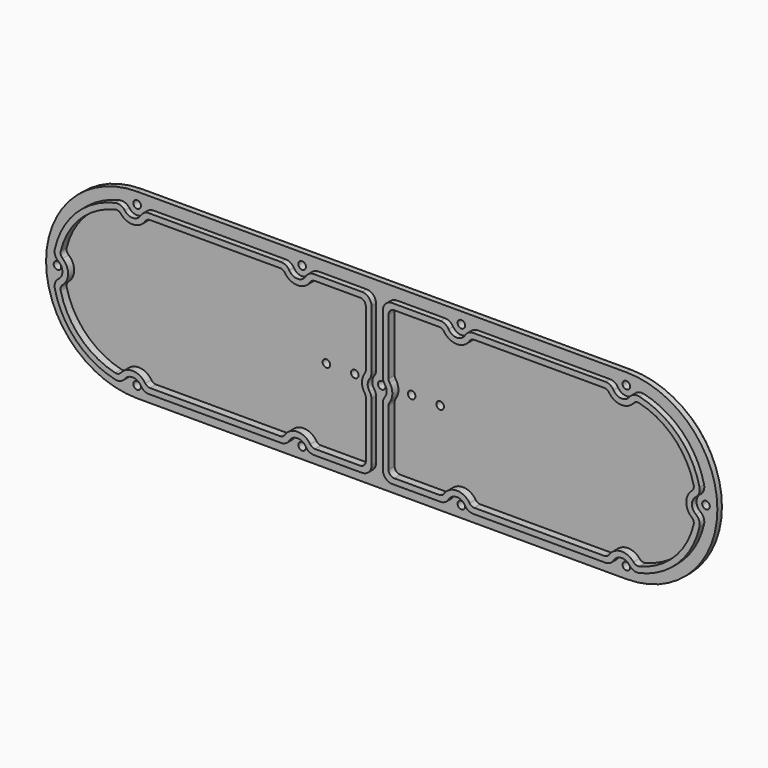
from build123d import *

# Parameters (mm, degrees)
F0_R     = 2
F1_DEPTH = 5
F2_R     = 5
F3_DEPTH = 8
F4_DEPTH = 4
F5_R     = 5
F6_R     = 3
F7_SIZE  = 2


with BuildPart() as f1:
    # F0 (on Front) → F1 (new body)
    with BuildSketch(Plane.XZ):
        with BuildLine():
            ThreePointArc((129, -48), (177, 0), (129, 48))
            Line((129, 48), (0, 48))
            Line((0, 48), (-129, 48))
            ThreePointArc((-129, 48), (-177, 0), (-129, -48))
            Line((-129, -48), (0, -48))
            Line((0, -48), (129, -48))
        make_face()
        with Locations((-129, -42)):
            Circle(F0_R, mode=Mode.SUBTRACT)
        with Locations((-42, -42)):
            Circle(F0_R, mode=Mode.SUBTRACT)
        with Locations((42, -42)):
            Circle(F0_R, mode=Mode.SUBTRACT)
        with Locations((129, -42)):
            Circle(F0_R, mode=Mode.SUBTRACT)
        with Locations((-171, 0)):
            Circle(F0_R, mode=Mode.SUBTRACT)
        with BuildLine():
            Line((-37, 42), (-3, 42))
            Line((-3, 42), (-3, 4))
            ThreePointArc((-3, 4), (-5, 0), (-3, -4))
            Line((-3, -4), (-3, -42))
            Line((-3, -42), (-37, -42))
            ThreePointArc((-37, -42), (-42, -37), (-47, -42))
            Line((-47, -42), (-124, -42))
            ThreePointArc((-124, -42), (-128.8511244682, -37.0022168839), (-133.9911344304, -41.7023809524))
            ThreePointArc((-133.9911344304, -41.7023809524), (-158.6984848098, -29.6984848098), (-170.7023809524, -4.9911344304))
            ThreePointArc((-170.7023809524, -4.9911344304), (-166, 0), (-170.7023809524, 4.9911344304))
            ThreePointArc((-170.7023809524, 4.9911344304), (-158.6984848098, 29.6984848098), (-133.9911344304, 41.7023809524))
            ThreePointArc((-133.9911344304, 41.7023809524), (-128.8511244682, 37.0022168839), (-124, 42))
            Line((-124, 42), (-47, 42))
            ThreePointArc((-47, 42), (-42, 37), (-37, 42))
        make_face(mode=Mode.SUBTRACT)
        with Locations((-129, 42)):
            Circle(F0_R, mode=Mode.SUBTRACT)
        with Locations((-42, 42)):
            Circle(F0_R, mode=Mode.SUBTRACT)
        Circle(F0_R, mode=Mode.SUBTRACT)
        with BuildLine():
            Line((47, 42), (124, 42))
            ThreePointArc((124, 42), (128.8511244682, 37.0022168839), (133.9911344304, 41.7023809524))
            ThreePointArc((133.9911344304, 41.7023809524), (158.6984848098, 29.6984848098), (170.7023809524, 4.9911344304))
            ThreePointArc((170.7023809524, 4.9911344304), (166, 0), (170.7023809524, -4.9911344304))
            ThreePointArc((170.7023809524, -4.9911344304), (158.6984848098, -29.6984848098), (133.9911344304, -41.7023809524))
            ThreePointArc((133.9911344304, -41.7023809524), (128.8511244682, -37.0022168839), (124, -42))
            Line((124, -42), (47, -42))
            ThreePointArc((47, -42), (42, -37), (37, -42))
            Line((37, -42), (3, -42))
            Line((3, -42), (3, -4))
            ThreePointArc((3, -4), (5, 0), (3, 4))
            Line((3, 4), (3, 42))
            Line((3, 42), (37, 42))
            ThreePointArc((37, 42), (42, 37), (47, 42))
        make_face(mode=Mode.SUBTRACT)
        with Locations((171, 0)):
            Circle(F0_R, mode=Mode.SUBTRACT)
        with Locations((42, 42)):
            Circle(F0_R, mode=Mode.SUBTRACT)
        with Locations((129, 42)):
            Circle(F0_R, mode=Mode.SUBTRACT)
    extrude(amount=F1_DEPTH)

    # F2
    f2_edges = [f1.edges().sort_by_distance(p)[0] for p in [
        (3, -2.5, 42),
        (3, -2.5, -42),
        (37, -2.5, -42),
        (47, -2.5, -42),
        (124, -2.5, -42),
        (133.991134, -2.5, -41.702381),
        (170.702381, -2.5, -4.991134),
        (170.702381, -2.5, 4.991134),
        (124, -2.5, 42),
        (133.991134, -2.5, 41.702381),
        (47, -2.5, 42),
        (37, -2.5, 42),
        (3, -2.5, -4),
        (3, -2.5, 4),
        (-3, -2.5, 42),
        (-3, -2.5, -4),
        (-3, -2.5, 4),
        (-3, -2.5, -42),
        (-47, -2.5, -42),
        (-37, -2.5, -42),
        (-124, -2.5, -42),
        (-133.991134, -2.5, -41.702381),
        (-170.702381, -2.5, 4.991134),
        (-170.702381, -2.5, -4.991134),
        (-124, -2.5, 42),
        (-133.991134, -2.5, 41.702381),
        (-47, -2.5, 42),
        (-37, -2.5, 42),
    ]]
    fillet(f2_edges, radius=F2_R)

    # F0 (on Front) → F3 (join)
    with BuildSketch(Plane.XZ):
        with BuildLine():
            Line((-3, 4), (-3, 42))
            Line((-3, 42), (-37, 42))
            ThreePointArc((-37, 42), (-42, 37), (-47, 42))
            Line((-47, 42), (-124, 42))
            ThreePointArc((-124, 42), (-128.8511244682, 37.0022168839), (-133.9911344304, 41.7023809524))
            ThreePointArc((-133.9911344304, 41.7023809524), (-158.6984848098, 29.6984848098), (-170.7023809524, 4.9911344304))
            ThreePointArc((-170.7023809524, 4.9911344304), (-166, 0), (-170.7023809524, -4.9911344304))
            ThreePointArc((-170.7023809524, -4.9911344304), (-158.6984848098, -29.6984848098), (-133.9911344304, -41.7023809524))
            ThreePointArc((-133.9911344304, -41.7023809524), (-128.8511244682, -37.0022168839), (-124, -42))
            Line((-124, -42), (-47, -42))
            ThreePointArc((-47, -42), (-42, -37), (-37, -42))
            Line((-37, -42), (-3, -42))
            Line((-3, -42), (-3, -4))
            ThreePointArc((-3, -4), (-5, 0), (-3, 4))
        make_face()
        with BuildLine():
            ThreePointArc((-6, 5.2915026221), (-8, 0), (-6, -5.2915026221))
            Line((-6, -5.2915026221), (-6, -39))
            Line((-6, -39), (-34.5838015129, -39))
            ThreePointArc((-34.5838015129, -39), (-42, -34), (-49.4161984871, -39))
            Line((-49.4161984871, -39), (-121.5838015129, -39))
            ThreePointArc((-121.5838015129, -39), (-128.6399268998, -34.008107398), (-136.1163695393, -38.3452380952))
            ThreePointArc((-136.1163695393, -38.3452380952), (-156.5771644663, -27.5771644663), (-167.3452380952, -7.1163695393))
            ThreePointArc((-167.3452380952, -7.1163695393), (-163, 0), (-167.3452380952, 7.1163695393))
            ThreePointArc((-167.3452380952, 7.1163695393), (-156.5771644663, 27.5771644663), (-136.1163695393, 38.3452380952))
            ThreePointArc((-136.1163695393, 38.3452380952), (-128.6399268998, 34.008107398), (-121.5838015129, 39))
            Line((-121.5838015129, 39), (-49.4161984871, 39))
            ThreePointArc((-49.4161984871, 39), (-42, 34), (-34.5838015129, 39))
            Line((-34.5838015129, 39), (-6, 39))
            Line((-6, 39), (-6, 5.2915026221))
        make_face(mode=Mode.SUBTRACT)
        with BuildLine():
            ThreePointArc((133.9911344304, 41.7023809524), (128.8511244682, 37.0022168839), (124, 42))
            Line((124, 42), (47, 42))
            ThreePointArc((47, 42), (42, 37), (37, 42))
            Line((37, 42), (3, 42))
            Line((3, 42), (3, 4))
            ThreePointArc((3, 4), (5, 0), (3, -4))
            Line((3, -4), (3, -42))
            Line((3, -42), (37, -42))
            ThreePointArc((37, -42), (42, -37), (47, -42))
            Line((47, -42), (124, -42))
            ThreePointArc((124, -42), (128.8511244682, -37.0022168839), (133.9911344304, -41.7023809524))
            ThreePointArc((133.9911344304, -41.7023809524), (158.6984848098, -29.6984848098), (170.7023809524, -4.9911344304))
            ThreePointArc((170.7023809524, -4.9911344304), (166, 0), (170.7023809524, 4.9911344304))
            ThreePointArc((170.7023809524, 4.9911344304), (158.6984848098, 29.6984848098), (133.9911344304, 41.7023809524))
        make_face()
        with BuildLine():
            Line((6, 39), (34.5838015129, 39))
            ThreePointArc((34.5838015129, 39), (42, 34), (49.4161984871, 39))
            Line((49.4161984871, 39), (121.5838015129, 39))
            ThreePointArc((121.5838015129, 39), (128.6399268998, 34.008107398), (136.1163695393, 38.3452380952))
            ThreePointArc((136.1163695393, 38.3452380952), (156.5771644663, 27.5771644663), (167.3452380952, 7.1163695393))
            ThreePointArc((167.3452380952, 7.1163695393), (163, 0), (167.3452380952, -7.1163695393))
            ThreePointArc((167.3452380952, -7.1163695393), (156.5771644663, -27.5771644663), (136.1163695393, -38.3452380952))
            ThreePointArc((136.1163695393, -38.3452380952), (128.6399268998, -34.008107398), (121.5838015129, -39))
            Line((121.5838015129, -39), (49.4161984871, -39))
            ThreePointArc((49.4161984871, -39), (42, -34), (34.5838015129, -39))
            Line((34.5838015129, -39), (6, -39))
            Line((6, -39), (6, -5.2915026221))
            ThreePointArc((6, -5.2915026221), (8, 0), (6, 5.2915026221))
            Line((6, 5.2915026221), (6, 39))
        make_face(mode=Mode.SUBTRACT)
    extrude(amount=F3_DEPTH)

    # F0 (on Front) → F4 (join)
    with BuildSketch(Plane.XZ):
        with BuildLine():
            ThreePointArc((49.4161984871, 39), (42, 34), (34.5838015129, 39))
            Line((34.5838015129, 39), (6, 39))
            Line((6, 39), (6, 5.2915026221))
            ThreePointArc((6, 5.2915026221), (8, 0), (6, -5.2915026221))
            Line((6, -5.2915026221), (6, -39))
            Line((6, -39), (34.5838015129, -39))
            ThreePointArc((34.5838015129, -39), (42, -34), (49.4161984871, -39))
            Line((49.4161984871, -39), (121.5838015129, -39))
            ThreePointArc((121.5838015129, -39), (128.6399268998, -34.008107398), (136.1163695393, -38.3452380952))
            ThreePointArc((136.1163695393, -38.3452380952), (156.5771644663, -27.5771644663), (167.3452380952, -7.1163695393))
            ThreePointArc((167.3452380952, -7.1163695393), (163, 0), (167.3452380952, 7.1163695393))
            ThreePointArc((167.3452380952, 7.1163695393), (156.5771644663, 27.5771644663), (136.1163695393, 38.3452380952))
            ThreePointArc((136.1163695393, 38.3452380952), (128.6399268998, 34.008107398), (121.5838015129, 39))
            Line((121.5838015129, 39), (49.4161984871, 39))
        make_face()
        with Locations((15, 0)):
            Circle(F0_R, mode=Mode.SUBTRACT)
        with Locations((30, 0)):
            Circle(F0_R, mode=Mode.SUBTRACT)
        with BuildLine():
            Line((-6, -39), (-6, -5.2915026221))
            ThreePointArc((-6, -5.2915026221), (-8, 0), (-6, 5.2915026221))
            Line((-6, 5.2915026221), (-6, 39))
            Line((-6, 39), (-34.5838015129, 39))
            ThreePointArc((-34.5838015129, 39), (-42, 34), (-49.4161984871, 39))
            Line((-49.4161984871, 39), (-121.5838015129, 39))
            ThreePointArc((-121.5838015129, 39), (-128.6399268998, 34.008107398), (-136.1163695393, 38.3452380952))
            ThreePointArc((-136.1163695393, 38.3452380952), (-156.5771644663, 27.5771644663), (-167.3452380952, 7.1163695393))
            ThreePointArc((-167.3452380952, 7.1163695393), (-163, 0), (-167.3452380952, -7.1163695393))
            ThreePointArc((-167.3452380952, -7.1163695393), (-156.5771644663, -27.5771644663), (-136.1163695393, -38.3452380952))
            ThreePointArc((-136.1163695393, -38.3452380952), (-128.6399268998, -34.008107398), (-121.5838015129, -39))
            Line((-121.5838015129, -39), (-49.4161984871, -39))
            ThreePointArc((-49.4161984871, -39), (-42, -34), (-34.5838015129, -39))
            Line((-34.5838015129, -39), (-6, -39))
        make_face()
        with Locations((-30, 0)):
            Circle(F0_R, mode=Mode.SUBTRACT)
        with Locations((-15, 0)):
            Circle(F0_R, mode=Mode.SUBTRACT)
    extrude(amount=F4_DEPTH)

    # F5
    f5_edges = [f1.edges().sort_by_distance(p)[0] for p in [
        (37, -6.5, 42),
        (47, -6.5, 42),
        (124, -6.5, 42),
        (133.991134, -6.5, 41.702381),
        (170.702381, -6.5, 4.991134),
        (170.702381, -6.5, -4.991134),
        (133.991134, -6.5, -41.702381),
        (124, -6.5, -42),
        (47, -6.5, -42),
        (37, -6.5, -42),
        (3, -6.5, -42),
        (3, -6.5, -4),
        (3, -6.5, 4),
        (-3, -6.5, 4),
        (-3, -6.5, -4),
        (-3, -6.5, 42),
        (3, -6.5, 42),
        (-37, -6.5, 42),
        (-47, -6.5, 42),
        (-124, -6.5, 42),
        (-133.991134, -6.5, 41.702381),
        (-170.702381, -6.5, 4.991134),
        (-170.702381, -6.5, -4.991134),
        (-124, -6.5, -42),
        (-133.991134, -6.5, -41.702381),
        (-47, -6.5, -42),
        (-37, -6.5, -42),
        (-3, -6.5, -42),
    ]]
    fillet(f5_edges, radius=F5_R)

    # F6
    f6_edges = [f1.edges().sort_by_distance(p)[0] for p in [
        (6, -6, 5.291503),
        (6, -6, -5.291503),
        (-6, -6, -5.291503),
        (-6, -6, 5.291503),
        (-6, -6, 39),
        (6, -6, 39),
        (-34.583802, -6, 39),
        (34.583802, -6, 39),
        (-49.416198, -6, 39),
        (-136.11637, -6, 38.345238),
        (-121.583802, -6, 39),
        (-167.345238, -6, -7.11637),
        (-167.345238, -6, 7.11637),
        (-121.583802, -6, -39),
        (-136.11637, -6, -38.345238),
        (-6, -6, -39),
        (-49.416198, -6, -39),
        (-34.583802, -6, -39),
        (6, -6, -39),
        (49.416198, -6, -39),
        (34.583802, -6, -39),
        (121.583802, -6, -39),
        (136.11637, -6, -38.345238),
        (167.345238, -6, -7.11637),
        (167.345238, -6, 7.11637),
        (121.583802, -6, 39),
        (136.11637, -6, 38.345238),
        (49.416198, -6, 39),
    ]]
    fillet(f6_edges, radius=F6_R)

    # F7
    f7_edges = [f1.edges().sort_by_distance(p)[0] for p in [
        (0, 0, -48),
    ]]
    chamfer(f7_edges, length=F7_SIZE)


solid = f1.part
